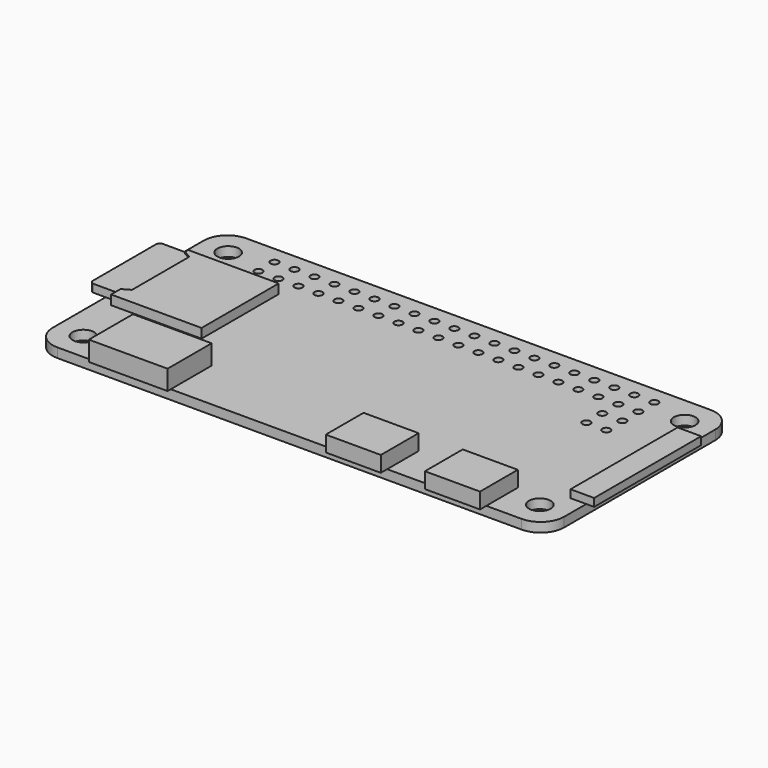
from build123d import *

# Parameters (mm, degrees)
F0_R     = 3
F0_R_2   = 0.508
F0_R_3   = 1.375
F2_DEPTH = 1.2
F1_W     = 3
F1_H     = 17
F3_DEPTH = 1
F1_W_2   = 7
F1_H_2   = 6
F4_DEPTH = 2
F1_W_3   = 10
F1_H_3   = 7
F5_DEPTH = 2.5
F6_DEPTH = 1.2
F7_DEPTH = 1


with BuildPart() as f2:
    # F0 (on Top) → F2 (new body)
    with BuildSketch(Plane.XY):
        with BuildLine():
            ThreePointArc((32.5, 12), (31.62132, 14.12132), (29.5, 15))
            Line((29.5, 15), (-29.5, 15))
            ThreePointArc((-29.5, 15), (-31.62132, 14.12132), (-32.5, 12))
            Line((-32.5, 12), (-32.5, -12))
            ThreePointArc((-32.5, -12), (-31.62132, -14.12132), (-29.5, -15))
            Line((-29.5, -15), (29.5, -15))
            ThreePointArc((29.5, -15), (31.62132, -14.12132), (32.5, -12))
            Line((32.5, -12), (32.5, 12))
        make_face()
        with Locations((-29, -11.5)):
            Circle(F0_R, mode=Mode.SUBTRACT)
        with Locations((29, -11.5)):
            Circle(F0_R, mode=Mode.SUBTRACT)
        with Locations((-24.13, 10.23)):
            Circle(F0_R_2, mode=Mode.SUBTRACT)
        with Locations((-21.59, 10.23)):
            Circle(F0_R_2, mode=Mode.SUBTRACT)
        with Locations((-19.05, 10.23)):
            Circle(F0_R_2, mode=Mode.SUBTRACT)
        with Locations((-16.51, 10.23)):
            Circle(F0_R_2, mode=Mode.SUBTRACT)
        with Locations((-29, 11.5)):
            Circle(F0_R, mode=Mode.SUBTRACT)
        with Locations((-24.13, 12.77)):
            Circle(F0_R_2, mode=Mode.SUBTRACT)
        with Locations((-21.59, 12.77)):
            Circle(F0_R_2, mode=Mode.SUBTRACT)
        with Locations((-19.05, 12.77)):
            Circle(F0_R_2, mode=Mode.SUBTRACT)
        with Locations((-16.51, 12.77)):
            Circle(F0_R_2, mode=Mode.SUBTRACT)
        with Locations((-13.97, 10.23)):
            Circle(F0_R_2, mode=Mode.SUBTRACT)
        with Locations((-11.43, 10.23)):
            Circle(F0_R_2, mode=Mode.SUBTRACT)
        with Locations((-8.89, 10.23)):
            Circle(F0_R_2, mode=Mode.SUBTRACT)
        with Locations((-6.35, 10.23)):
            Circle(F0_R_2, mode=Mode.SUBTRACT)
        with Locations((-3.81, 10.23)):
            Circle(F0_R_2, mode=Mode.SUBTRACT)
        with Locations((-1.27, 10.23)):
            Circle(F0_R_2, mode=Mode.SUBTRACT)
        with Locations((-13.97, 12.77)):
            Circle(F0_R_2, mode=Mode.SUBTRACT)
        with Locations((-11.43, 12.77)):
            Circle(F0_R_2, mode=Mode.SUBTRACT)
        with Locations((-8.89, 12.77)):
            Circle(F0_R_2, mode=Mode.SUBTRACT)
        with Locations((-6.35, 12.77)):
            Circle(F0_R_2, mode=Mode.SUBTRACT)
        with Locations((-3.81, 12.77)):
            Circle(F0_R_2, mode=Mode.SUBTRACT)
        with Locations((-1.27, 12.77)):
            Circle(F0_R_2, mode=Mode.SUBTRACT)
        with Locations((21.59, 5.15)):
            Circle(F0_R_2, mode=Mode.SUBTRACT)
        with Locations((24.13, 5.15)):
            Circle(F0_R_2, mode=Mode.SUBTRACT)
        with Locations((1.27, 10.23)):
            Circle(F0_R_2, mode=Mode.SUBTRACT)
        with Locations((3.81, 10.23)):
            Circle(F0_R_2, mode=Mode.SUBTRACT)
        with Locations((6.35, 10.23)):
            Circle(F0_R_2, mode=Mode.SUBTRACT)
        with Locations((8.89, 10.23)):
            Circle(F0_R_2, mode=Mode.SUBTRACT)
        with Locations((11.43, 10.23)):
            Circle(F0_R_2, mode=Mode.SUBTRACT)
        with Locations((13.97, 10.23)):
            Circle(F0_R_2, mode=Mode.SUBTRACT)
        with Locations((1.27, 12.77)):
            Circle(F0_R_2, mode=Mode.SUBTRACT)
        with Locations((3.81, 12.77)):
            Circle(F0_R_2, mode=Mode.SUBTRACT)
        with Locations((6.35, 12.77)):
            Circle(F0_R_2, mode=Mode.SUBTRACT)
        with Locations((8.89, 12.77)):
            Circle(F0_R_2, mode=Mode.SUBTRACT)
        with Locations((11.43, 12.77)):
            Circle(F0_R_2, mode=Mode.SUBTRACT)
        with Locations((13.97, 12.77)):
            Circle(F0_R_2, mode=Mode.SUBTRACT)
        with Locations((21.59, 7.69)):
            Circle(F0_R_2, mode=Mode.SUBTRACT)
        with Locations((24.13, 7.69)):
            Circle(F0_R_2, mode=Mode.SUBTRACT)
        with Locations((16.51, 10.23)):
            Circle(F0_R_2, mode=Mode.SUBTRACT)
        with Locations((19.05, 10.23)):
            Circle(F0_R_2, mode=Mode.SUBTRACT)
        with Locations((21.59, 10.23)):
            Circle(F0_R_2, mode=Mode.SUBTRACT)
        with Locations((24.13, 10.23)):
            Circle(F0_R_2, mode=Mode.SUBTRACT)
        with Locations((16.51, 12.77)):
            Circle(F0_R_2, mode=Mode.SUBTRACT)
        with Locations((19.05, 12.77)):
            Circle(F0_R_2, mode=Mode.SUBTRACT)
        with Locations((21.59, 12.77)):
            Circle(F0_R_2, mode=Mode.SUBTRACT)
        with Locations((24.13, 12.77)):
            Circle(F0_R_2, mode=Mode.SUBTRACT)
        with Locations((29, 11.5)):
            Circle(F0_R, mode=Mode.SUBTRACT)
        with Locations((-29, -11.5)):
            Circle(F0_R)
        with Locations((-29, -11.5)):
            Circle(F0_R_3, mode=Mode.SUBTRACT)
        with Locations((-29, 11.5)):
            Circle(F0_R)
        with Locations((-29, 11.5)):
            Circle(F0_R_3, mode=Mode.SUBTRACT)
        with Locations((29, 11.5)):
            Circle(F0_R)
        with Locations((29, 11.5)):
            Circle(F0_R_3, mode=Mode.SUBTRACT)
        with Locations((29, -11.5)):
            Circle(F0_R)
        with Locations((29, -11.5)):
            Circle(F0_R_3, mode=Mode.SUBTRACT)
    extrude(amount=-F2_DEPTH)


with BuildPart() as f3:
    # F1 (on Top) → F3 (new body)
    with BuildSketch(Plane.XY):
        with Locations((32, 0)):
            Rectangle(F1_W, F1_H)
    extrude(amount=F3_DEPTH)


with BuildPart() as f4:
    # F1 (on Top) → F4 (new body)
    with BuildSketch(Plane.XY):
        with Locations((21.5, -13)):
            Rectangle(F1_W_2, F1_H_2)
        with Locations((8.9, -13)):
            Rectangle(F1_W_2, F1_H_2)
    extrude(amount=F4_DEPTH)


with BuildPart() as f5:
    # F1 (on Top) → F5 (new body)
    with BuildSketch(Plane.XY):
        with Locations((-20.1, -12)):
            Rectangle(F1_W_3, F1_H_3)
    extrude(amount=F5_DEPTH)


with BuildPart() as f6:
    # F1 (on Top) → F6 (new body)
    with BuildSketch(Plane.XY):
        Polygon((-19.5, -4.6), (-19.5, 7.65), (-31, 7.65), (-31, 7.4), (-31, 7.15), (-30, 6.57265), (-30, -2.52265), (-31, -3.1), (-31, -3.6), (-31, -4.6), align=None)
    extrude(amount=F6_DEPTH)


with BuildPart() as f7:
    # F1 (on Top) → F7 (new body)
    with BuildSketch(Plane.XY):
        Polygon((-30, 6.57265), (-31, 7.15), (-31, -3.1), (-30, -2.52265), align=None)
        with BuildLine():
            Line((-31, 7.15), (-31, 7.4))
            Line((-31, 7.4), (-34, 7.4))
            ThreePointArc((-34, 7.4), (-34.353553, 7.253553), (-34.5, 6.9))
            Line((-34.5, 6.9), (-34.5, -3.1))
            ThreePointArc((-34.5, -3.1), (-34.353553, -3.453553), (-34, -3.6))
            Line((-34, -3.6), (-31, -3.6))
            Line((-31, -3.6), (-31, -3.1))
            Line((-31, -3.1), (-31, 7.15))
        make_face()
    extrude(amount=F7_DEPTH)


solid = Compound([f2.part, f3.part, f4.part, f5.part, f6.part, f7.part])
